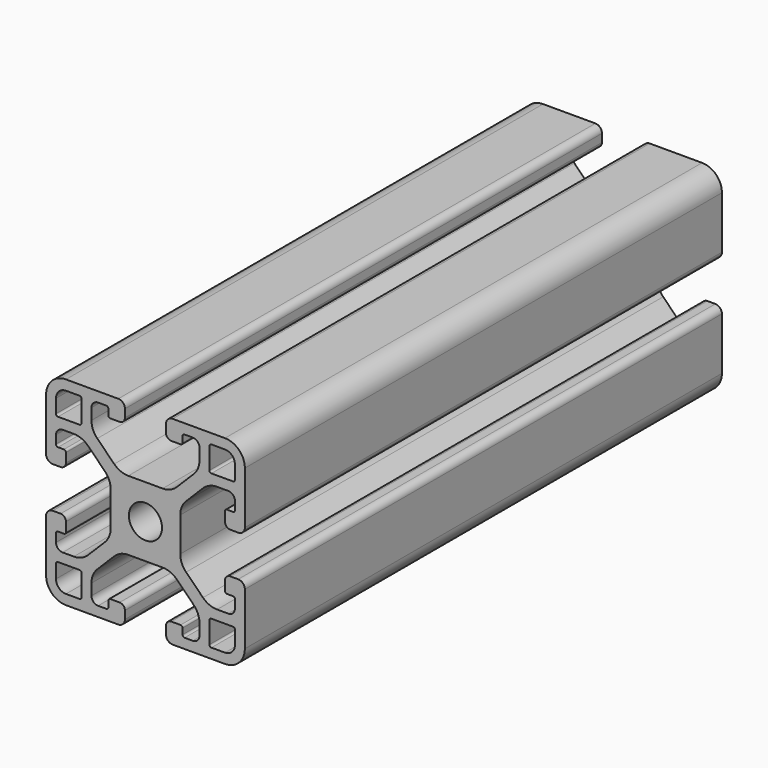
from build123d import *

# Parameters (mm, degrees)
F0_R     = 2.5
F1_DEPTH = 90


with BuildPart() as f1:
    # F0 (on Front) → F1 (new body)
    with BuildSketch(Plane.XZ):
        with BuildLine():
            Line((2.593146, 5.25), (0, 5.25))
            Line((0, 5.25), (-2.593146, 5.25))
            ThreePointArc((-2.593146, 5.25), (-3.741196, 5.478361), (-4.714466, 6.12868))
            Line((-4.714466, 6.12868), (-7.27132, 8.685534))
            ThreePointArc((-7.27132, 8.685534), (-7.921639, 9.658804), (-8.15, 10.806854))
            Line((-8.15, 10.806854), (-8.15, 12.5))
            ThreePointArc((-8.15, 12.5), (-7.857107, 13.207107), (-7.15, 13.5))
            Line((-7.15, 13.5), (-5.9, 13.5))
            ThreePointArc((-5.9, 13.5), (-5.687868, 13.412132), (-5.6, 13.2))
            Line((-5.6, 13.2), (-5.6, 12.3))
            ThreePointArc((-5.6, 12.3), (-5.512132, 12.087868), (-5.3, 12))
            Line((-5.3, 12), (-3.9, 12))
            ThreePointArc((-3.9, 12), (-3.334315, 12.234315), (-3.1, 12.8))
            Line((-3.1, 12.8), (-3.1, 14))
            ThreePointArc((-3.1, 14), (-3.392893, 14.707107), (-4.1, 15))
            Line((-4.1, 15), (-12, 15))
            ThreePointArc((-12, 15), (-14.12132, 14.12132), (-15, 12))
            Line((-15, 12), (-15, 4.1))
            ThreePointArc((-15, 4.1), (-14.707107, 3.392893), (-14, 3.1))
            Line((-14, 3.1), (-12.8, 3.1))
            ThreePointArc((-12.8, 3.1), (-12.234315, 3.334315), (-12, 3.9))
            Line((-12, 3.9), (-12, 5.3))
            ThreePointArc((-12, 5.3), (-12.087868, 5.512132), (-12.3, 5.6))
            Line((-12.3, 5.6), (-13.2, 5.6))
            ThreePointArc((-13.2, 5.6), (-13.412132, 5.687868), (-13.5, 5.9))
            Line((-13.5, 5.9), (-13.5, 7.15))
            ThreePointArc((-13.5, 7.15), (-13.207107, 7.857107), (-12.5, 8.15))
            Line((-12.5, 8.15), (-10.806854, 8.15))
            ThreePointArc((-10.806854, 8.15), (-9.658804, 7.921639), (-8.685534, 7.27132))
            Line((-8.685534, 7.27132), (-6.12868, 4.714466))
            ThreePointArc((-6.12868, 4.714466), (-5.478361, 3.741196), (-5.25, 2.593146))
            Line((-5.25, 2.593146), (-5.25, 0))
            Line((-5.25, 0), (-5.25, -2.593146))
            ThreePointArc((-5.25, -2.593146), (-5.478361, -3.741196), (-6.12868, -4.714466))
            Line((-6.12868, -4.714466), (-8.685534, -7.27132))
            ThreePointArc((-8.685534, -7.27132), (-9.658804, -7.921639), (-10.806854, -8.15))
            Line((-10.806854, -8.15), (-12.5, -8.15))
            ThreePointArc((-12.5, -8.15), (-13.207107, -7.857107), (-13.5, -7.15))
            Line((-13.5, -7.15), (-13.5, -5.9))
            ThreePointArc((-13.5, -5.9), (-13.412132, -5.687868), (-13.2, -5.6))
            Line((-13.2, -5.6), (-12.3, -5.6))
            ThreePointArc((-12.3, -5.6), (-12.087868, -5.512132), (-12, -5.3))
            Line((-12, -5.3), (-12, -3.9))
            ThreePointArc((-12, -3.9), (-12.234315, -3.334315), (-12.8, -3.1))
            Line((-12.8, -3.1), (-14, -3.1))
            ThreePointArc((-14, -3.1), (-14.707107, -3.392893), (-15, -4.1))
            Line((-15, -4.1), (-15, -12))
            ThreePointArc((-15, -12), (-14.12132, -14.12132), (-12, -15))
            Line((-12, -15), (-4.1, -15))
            ThreePointArc((-4.1, -15), (-3.392893, -14.707107), (-3.1, -14))
            Line((-3.1, -14), (-3.1, -12.8))
            ThreePointArc((-3.1, -12.8), (-3.334315, -12.234315), (-3.9, -12))
            Line((-3.9, -12), (-5.3, -12))
            ThreePointArc((-5.3, -12), (-5.512132, -12.087868), (-5.6, -12.3))
            Line((-5.6, -12.3), (-5.6, -13.2))
            ThreePointArc((-5.6, -13.2), (-5.687868, -13.412132), (-5.9, -13.5))
            Line((-5.9, -13.5), (-7.15, -13.5))
            ThreePointArc((-7.15, -13.5), (-7.857107, -13.207107), (-8.15, -12.5))
            Line((-8.15, -12.5), (-8.15, -10.806854))
            ThreePointArc((-8.15, -10.806854), (-7.921639, -9.658804), (-7.27132, -8.685534))
            Line((-7.27132, -8.685534), (-4.714466, -6.12868))
            ThreePointArc((-4.714466, -6.12868), (-3.741196, -5.478361), (-2.593146, -5.25))
            Line((-2.593146, -5.25), (0, -5.25))
            Line((0, -5.25), (2.593146, -5.25))
            ThreePointArc((2.593146, -5.25), (3.741196, -5.478361), (4.714466, -6.12868))
            Line((4.714466, -6.12868), (7.27132, -8.685534))
            ThreePointArc((7.27132, -8.685534), (7.921639, -9.658804), (8.15, -10.806854))
            Line((8.15, -10.806854), (8.15, -12.5))
            ThreePointArc((8.15, -12.5), (7.857107, -13.207107), (7.15, -13.5))
            Line((7.15, -13.5), (5.9, -13.5))
            ThreePointArc((5.9, -13.5), (5.687868, -13.412132), (5.6, -13.2))
            Line((5.6, -13.2), (5.6, -12.3))
            ThreePointArc((5.6, -12.3), (5.512132, -12.087868), (5.3, -12))
            Line((5.3, -12), (3.9, -12))
            ThreePointArc((3.9, -12), (3.334315, -12.234315), (3.1, -12.8))
            Line((3.1, -12.8), (3.1, -14))
            ThreePointArc((3.1, -14), (3.392893, -14.707107), (4.1, -15))
            Line((4.1, -15), (12, -15))
            ThreePointArc((12, -15), (14.12132, -14.12132), (15, -12))
            Line((15, -12), (15, -4.1))
            ThreePointArc((15, -4.1), (14.707107, -3.392893), (14, -3.1))
            Line((14, -3.1), (12.8, -3.1))
            ThreePointArc((12.8, -3.1), (12.234315, -3.334315), (12, -3.9))
            Line((12, -3.9), (12, -5.3))
            ThreePointArc((12, -5.3), (12.087868, -5.512132), (12.3, -5.6))
            Line((12.3, -5.6), (13.2, -5.6))
            ThreePointArc((13.2, -5.6), (13.412132, -5.687868), (13.5, -5.9))
            Line((13.5, -5.9), (13.5, -7.15))
            ThreePointArc((13.5, -7.15), (13.207107, -7.857107), (12.5, -8.15))
            Line((12.5, -8.15), (10.806854, -8.15))
            ThreePointArc((10.806854, -8.15), (9.658804, -7.921639), (8.685534, -7.27132))
            Line((8.685534, -7.27132), (6.12868, -4.714466))
            ThreePointArc((6.12868, -4.714466), (5.478361, -3.741196), (5.25, -2.593146))
            Line((5.25, -2.593146), (5.25, 0))
            Line((5.25, 0), (5.25, 2.593146))
            ThreePointArc((5.25, 2.593146), (5.478361, 3.741196), (6.12868, 4.714466))
            Line((6.12868, 4.714466), (8.685534, 7.27132))
            ThreePointArc((8.685534, 7.27132), (9.658804, 7.921639), (10.806854, 8.15))
            Line((10.806854, 8.15), (12.5, 8.15))
            ThreePointArc((12.5, 8.15), (13.207107, 7.857107), (13.5, 7.15))
            Line((13.5, 7.15), (13.5, 5.9))
            ThreePointArc((13.5, 5.9), (13.412132, 5.687868), (13.2, 5.6))
            Line((13.2, 5.6), (12.3, 5.6))
            ThreePointArc((12.3, 5.6), (12.087868, 5.512132), (12, 5.3))
            Line((12, 5.3), (12, 3.9))
            ThreePointArc((12, 3.9), (12.234315, 3.334315), (12.8, 3.1))
            Line((12.8, 3.1), (14, 3.1))
            ThreePointArc((14, 3.1), (14.707107, 3.392893), (15, 4.1))
            Line((15, 4.1), (15, 12))
            ThreePointArc((15, 12), (14.12132, 14.12132), (12, 15))
            Line((12, 15), (4.1, 15))
            ThreePointArc((4.1, 15), (3.392893, 14.707107), (3.1, 14))
            Line((3.1, 14), (3.1, 12.8))
            ThreePointArc((3.1, 12.8), (3.334315, 12.234315), (3.9, 12))
            Line((3.9, 12), (5.3, 12))
            ThreePointArc((5.3, 12), (5.512132, 12.087868), (5.6, 12.3))
            Line((5.6, 12.3), (5.6, 13.2))
            ThreePointArc((5.6, 13.2), (5.687868, 13.412132), (5.9, 13.5))
            Line((5.9, 13.5), (7.15, 13.5))
            ThreePointArc((7.15, 13.5), (7.857107, 13.207107), (8.15, 12.5))
            Line((8.15, 12.5), (8.15, 10.806854))
            ThreePointArc((8.15, 10.806854), (7.921639, 9.658804), (7.27132, 8.685534))
            Line((7.27132, 8.685534), (4.714466, 6.12868))
            ThreePointArc((4.714466, 6.12868), (3.741196, 5.478361), (2.593146, 5.25))
        make_face()
        with BuildLine():
            ThreePointArc((-9.95, -9.65), (-9.737868, -9.737868), (-9.65, -9.95))
            Line((-9.65, -9.95), (-9.65, -13.2))
            ThreePointArc((-9.65, -13.2), (-9.737868, -13.412132), (-9.95, -13.5))
            Line((-9.95, -13.5), (-12, -13.5))
            ThreePointArc((-12, -13.5), (-13.06066, -13.06066), (-13.5, -12))
            Line((-13.5, -12), (-13.5, -9.95))
            ThreePointArc((-13.5, -9.95), (-13.412132, -9.737868), (-13.2, -9.65))
            Line((-13.2, -9.65), (-9.95, -9.65))
        make_face(mode=Mode.SUBTRACT)
        with BuildLine():
            Line((12, -13.5), (9.95, -13.5))
            ThreePointArc((9.95, -13.5), (9.737868, -13.412132), (9.65, -13.2))
            Line((9.65, -13.2), (9.65, -9.95))
            ThreePointArc((9.65, -9.95), (9.737868, -9.737868), (9.95, -9.65))
            Line((9.95, -9.65), (13.2, -9.65))
            ThreePointArc((13.2, -9.65), (13.412132, -9.737868), (13.5, -9.95))
            Line((13.5, -9.95), (13.5, -12))
            ThreePointArc((13.5, -12), (13.06066, -13.06066), (12, -13.5))
        make_face(mode=Mode.SUBTRACT)
        with BuildLine():
            Line((-9.95, 9.65), (-13.2, 9.65))
            ThreePointArc((-13.2, 9.65), (-13.412132, 9.737868), (-13.5, 9.95))
            Line((-13.5, 9.95), (-13.5, 12))
            ThreePointArc((-13.5, 12), (-13.06066, 13.06066), (-12, 13.5))
            Line((-12, 13.5), (-9.95, 13.5))
            ThreePointArc((-9.95, 13.5), (-9.737868, 13.412132), (-9.65, 13.2))
            Line((-9.65, 13.2), (-9.65, 9.95))
            ThreePointArc((-9.65, 9.95), (-9.737868, 9.737868), (-9.95, 9.65))
        make_face(mode=Mode.SUBTRACT)
        Circle(F0_R, mode=Mode.SUBTRACT)
        with BuildLine():
            ThreePointArc((9.65, 13.2), (9.737868, 13.412132), (9.95, 13.5))
            Line((9.95, 13.5), (12, 13.5))
            ThreePointArc((12, 13.5), (13.06066, 13.06066), (13.5, 12))
            Line((13.5, 12), (13.5, 9.95))
            ThreePointArc((13.5, 9.95), (13.412132, 9.737868), (13.2, 9.65))
            Line((13.2, 9.65), (9.95, 9.65))
            ThreePointArc((9.95, 9.65), (9.737868, 9.737868), (9.65, 9.95))
            Line((9.65, 9.95), (9.65, 13.2))
        make_face(mode=Mode.SUBTRACT)
    extrude(amount=F1_DEPTH)


solid = f1.part
